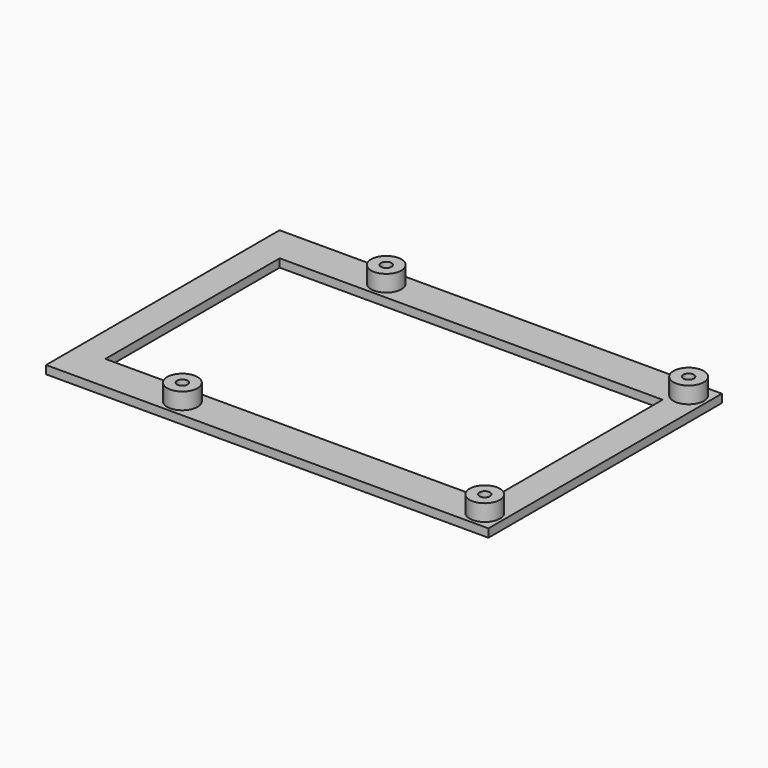
from build123d import *

# Parameters (mm, degrees)
F0_W     = 85.09
F0_H     = 56.134
F1_DEPTH = 1.5875
F2_W     = 73.66
F2_H     = 41.91
F3_DEPTH = 6.35
F4_R     = 2.921
F4_R_2   = 1.016
F5_DEPTH = 3.175
F6_DEPTH = 6.35


with BuildPart() as f1:
    # F0 (on Top) → F1 (new body)
    with BuildSketch(Plane.XY):
        Rectangle(F0_W, F0_H)
    extrude(amount=F1_DEPTH)

    # F2 (on face) → F3 (cut)
    with BuildSketch(Plane.XY.offset(1.5875)):
        Rectangle(F2_W, F2_H)
    extrude(amount=-F3_DEPTH, mode=Mode.SUBTRACT)

    # F4 (on face) → F5 (join)
    with BuildSketch(Plane.XY.offset(1.5875)):
        with Locations((38.989, 24.511)):
            Circle(F4_R)
        with Locations((38.989, 24.511)):
            Circle(F4_R_2, mode=Mode.SUBTRACT)
        with Locations((38.989, -24.511)):
            Circle(F4_R)
        with Locations((38.989, -24.511)):
            Circle(F4_R_2, mode=Mode.SUBTRACT)
        with Locations((-19.177, 24.511)):
            Circle(F4_R)
        with Locations((-19.177, 24.511)):
            Circle(F4_R_2, mode=Mode.SUBTRACT)
        with Locations((-19.177, -24.511)):
            Circle(F4_R)
        with Locations((-19.177, -24.511)):
            Circle(F4_R_2, mode=Mode.SUBTRACT)
    extrude(amount=F5_DEPTH)

    # F4 (on face) → F6 (cut)
    with BuildSketch(Plane.XY.offset(1.5875)):
        with Locations((38.989, -24.511)):
            Circle(F4_R_2)
        with Locations((-19.177, 24.511)):
            Circle(F4_R_2)
        with Locations((38.989, 24.511)):
            Circle(F4_R_2)
        with Locations((-19.177, -24.511)):
            Circle(F4_R_2)
    extrude(amount=-F6_DEPTH, mode=Mode.SUBTRACT)


solid = f1.part
